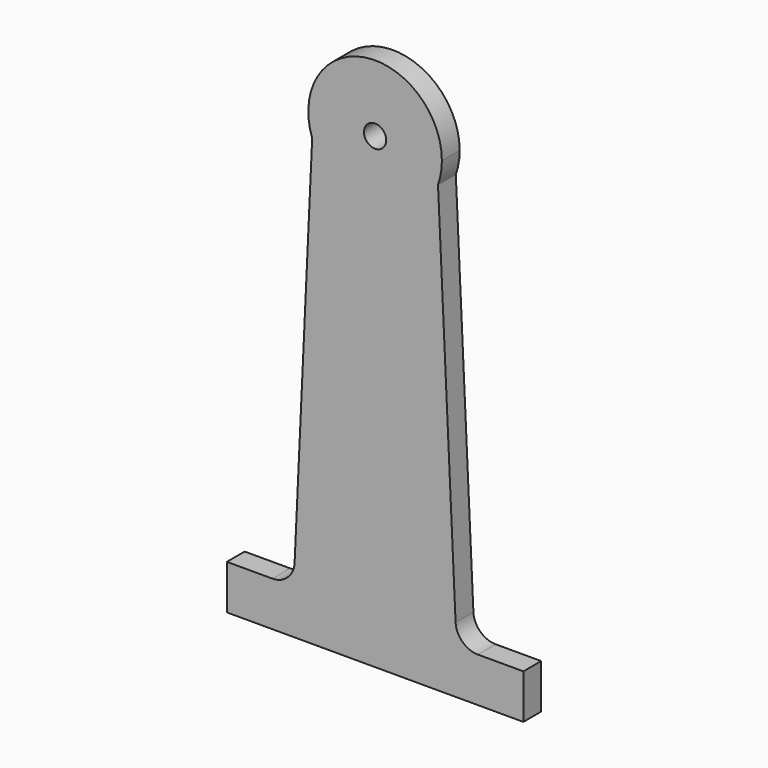
from build123d import *

# Parameters (mm, degrees)
F0_R     = 3.175
F1_DEPTH = 6.35


with BuildPart() as f1:
    # F0 (on Front) → F1 (new body)
    with BuildSketch(Plane.XZ):
        with BuildLine():
            Line((-71.594537, -71.514018), (-71.594537, -84.214018))
            Line((-71.594537, -84.214018), (12.987463, -84.214018))
            Line((12.987463, -84.214018), (12.987463, -71.514018))
            Line((12.987463, -71.514018), (0, -71.514018))
            ThreePointArc((0, -71.514018), (-4.384965, -69.756902), (-6.343192, -65.45798))
            Line((-6.343192, -65.45798), (-11.357634, 42.74481))
            ThreePointArc((-11.357634, 42.74481), (-29.303537, 30.085982), (-47.24944, 42.74481))
            Line((-47.24944, 42.74481), (-52.263882, -65.45798))
            ThreePointArc((-52.263882, -65.45798), (-54.222109, -69.756902), (-58.607074, -71.514018))
            Line((-58.607074, -71.514018), (-71.594537, -71.514018))
        make_face()
        with BuildLine():
            ThreePointArc((-10.253537, 49.135982), (-32.546457, 67.907929), (-47.24944, 42.74481))
            ThreePointArc((-47.24944, 42.74481), (-29.303537, 30.085982), (-11.357634, 42.74481))
            ThreePointArc((-11.357634, 42.74481), (-10.531591, 45.893063), (-10.253537, 49.135982))
        make_face()
        with Locations((-29.303537, 49.135982)):
            Circle(F0_R, mode=Mode.SUBTRACT)
    extrude(amount=-F1_DEPTH)


solid = f1.part
